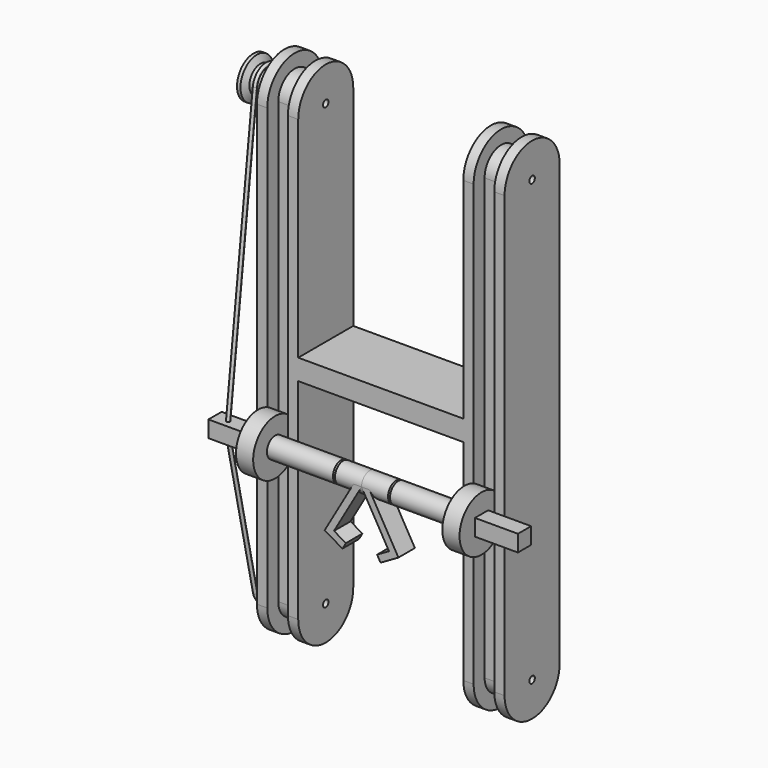
from build123d import *

# Parameters (mm, degrees)
F1_DEPTH  = 31.75
F2_R      = 31.75
F3_DEPTH  = 38.1
F4_W      = 19.05
F4_H      = 12.7
F7_R      = 3.175
F8_DEPTH  = 228.601
F15_DEPTH = 9.525
F19_W     = 15.24
F19_H     = 15.24
F20_DEPTH = 39.6875


with BuildPart() as f1:
    # F0 (on Front) → F1 (new body, symmetric)
    with BuildSketch(Plane.XZ):
        Polygon((-76.2, -9.525), (0, -9.525), (0, 9.525), (-76.2, 9.525), (-76.2, 203.2), (-114.3, 203.2), (-114.3, -203.2), (-76.2, -203.2), align=None)
    extrude(amount=F1_DEPTH, both=True)

    # F2 (on face) → F3 (join, through all)
    with BuildSketch(Plane(origin=(-114.3, 0, 0), x_dir=(0, -1, 0), z_dir=(-1, 0, 0))):
        with Locations((0, 203.2)):
            Circle(F2_R)
        with Locations((0, -203.2)):
            Circle(F2_R)
    extrude(amount=-F3_DEPTH)

    # F5: sweep along a path in F5_path
    with BuildLine(Plane(origin=(-114.3, -31.75, 203.2), x_dir=(0, 0, 1), z_dir=(1, 0, 0))) as f5_path:
        ThreePointArc((0, 0), (31.75, -31.75), (0, -63.5))
        Line((0, -63.5), (-406.4, -63.5))
        ThreePointArc((-406.4, -63.5), (-438.15, -31.75), (-406.4, 0))
        Line((-406.4, 0), (0, 0))
    # F4 (on Front) → F5 (sweep, cut)
    with BuildSketch(Plane.XZ):
        with Locations((-95.25, 228.6)):
            Rectangle(F4_W, F4_H)
    sweep(path=f5_path.line, mode=Mode.SUBTRACT)

    # F6: F1 across plane


with BuildPart() as f1_1:
    add(f1.part)
    add(f1.part.mirror(Plane.YZ))

    # F7 (on face) → F8 (cut, through all)
    with BuildSketch(Plane.YZ.offset(114.3)):
        with Locations((0, 203.2)):
            Circle(F7_R)
        with Locations((0, -203.2)):
            Circle(F7_R)
    extrude(amount=-F8_DEPTH, mode=Mode.SUBTRACT)



with BuildPart() as f10:
    # F9 (on Front) → F10 (revolve)
    with BuildSketch(Plane.XZ):
        Polygon((-146.05, 203.2), (-114.3, 203.2), (-114.3, 206.375), (-117.475, 206.375), (-117.475, 222.25), (-120.65, 222.25), (-123.825, 215.9), (-130.175, 215.9), (-136.525, 215.9), (-139.7, 222.25), (-142.875, 222.25), (-142.875, 206.375), (-146.05, 206.375), align=None)
    revolve(axis=Axis((-130.175, 0, 203.2), (-1, 0, 0)))


with BuildPart() as f12:
    # F11 (on Top) → F12 (revolve)
    with BuildSketch(Plane.XY):
        Polygon((-103.1875, -19.05), (-103.1875, -44.45), (0, -44.45), (0, -34.925), (-24.4834564477, -34.925), (-25.4, -36.5125), (-26.3165435523, -34.925), (-87.3125, -34.925), (-87.3125, -19.05), align=None)
    revolve(axis=Axis((-51.59375, -44.45, 0), (-1, 0, 0)))

    # F14 (on plane+point) → F15 (join, symmetric)
    with BuildSketch(Plane.XZ.offset(44.45)):
        Polygon((-25.4, -43.9940905122), (0, 0), (-7.3323484187, 0), (-34.074261314, -46.3183518263), (-17.5764773719, -55.8433518263), (-14.4014773719, -50.3440905122), align=None)
    extrude(amount=F15_DEPTH, both=True)


with BuildPart() as f12_1:
    # F16: moved
    add(f12.part.moved(Location((0, 0, -61.722))))

    # F19 (on face) → F20 (join, through all)
    with BuildSketch(Plane(origin=(-103.1875, 0, 0), x_dir=(0, -1, 0), z_dir=(-1, 0, 0))):
        with Locations((44.45, -61.722)):
            Rectangle(F19_W, F19_H)
    extrude(amount=F20_DEPTH)


with BuildPart() as f18:
    # F18: sweep along a path in F17
    with BuildLine(Plane.YZ) as f18_path:
        Line((-12.6102720354, 204.7069967461), (-44.45, -61.722))
        Line((-44.45, -61.722), (-12.3975639634, -205.9550694679))
        ThreePointArc((-12.3975639634, -205.9550694679), (1.385809811, -215.8241645731), (12.7, -203.2))
        Line((12.7, -203.2), (12.7, 203.2))
        ThreePointArc((12.7, 203.2), (0.7548328127, 215.877548163), (-12.6102720354, 204.7069967461))
    # F9 (on Front) → F18 (sweep)
    with BuildSketch(Plane.XZ):
        with BuildLine():
            ThreePointArc((-128.5875, 217.4875), (-131.2975320151, 218.6100320151), (-130.175, 215.9))
            ThreePointArc((-130.175, 215.9), (-129.0524679849, 216.3649679849), (-128.5875, 217.4875))
        make_face()
    sweep(path=f18_path.line, transition=Transition.RIGHT)


with BuildPart() as f1_2:
    add(f1_1.part)

    add(f12_1.part)  # F21 merges F12
    # F21: F12 across plane
    add(f12_1.part.mirror(Plane.YZ))


solid = Compound([f10.part, f18.part, f1_2.part])
